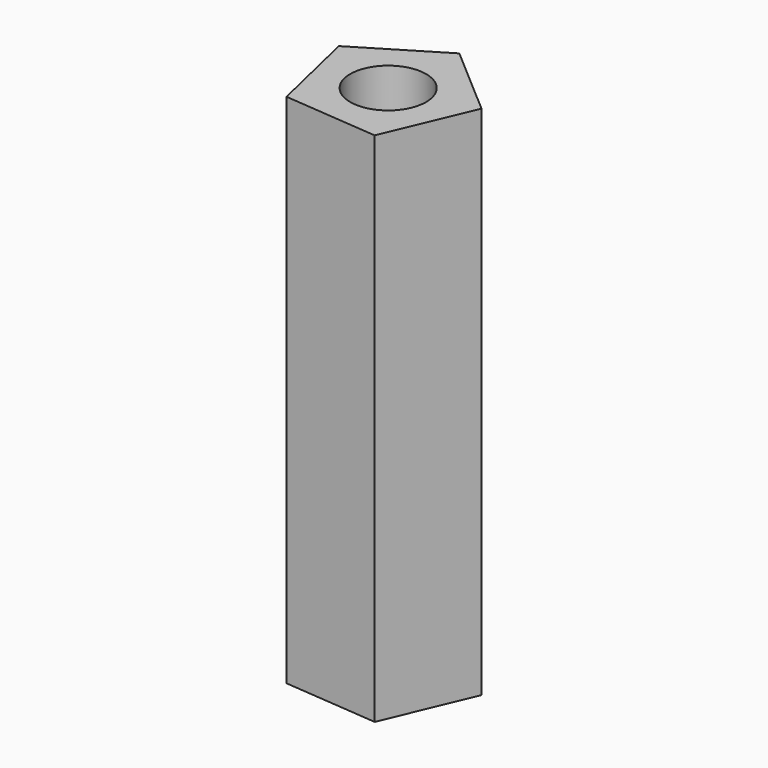
from build123d import *

# Parameters (mm, degrees)
F1_DEPTH = 34.544
F2_R     = 2.54
F3_DEPTH = 34.545


with BuildPart() as f1:
    # F0 (on Top) → F1 (new body)
    with BuildSketch(Plane.XY):
        Polygon((5.259377, 1.2315), (0.45401, 5.382519), (-4.978783, 2.095079), (-3.531067, -4.087689), (2.796463, -4.62141), align=None)
    extrude(amount=F1_DEPTH)

    # F2 (on face) → F3 (cut, through all)
    with BuildSketch(Plane.XY.offset(34.544)):
        Circle(F2_R)
    extrude(amount=-F3_DEPTH, mode=Mode.SUBTRACT)


solid = f1.part
